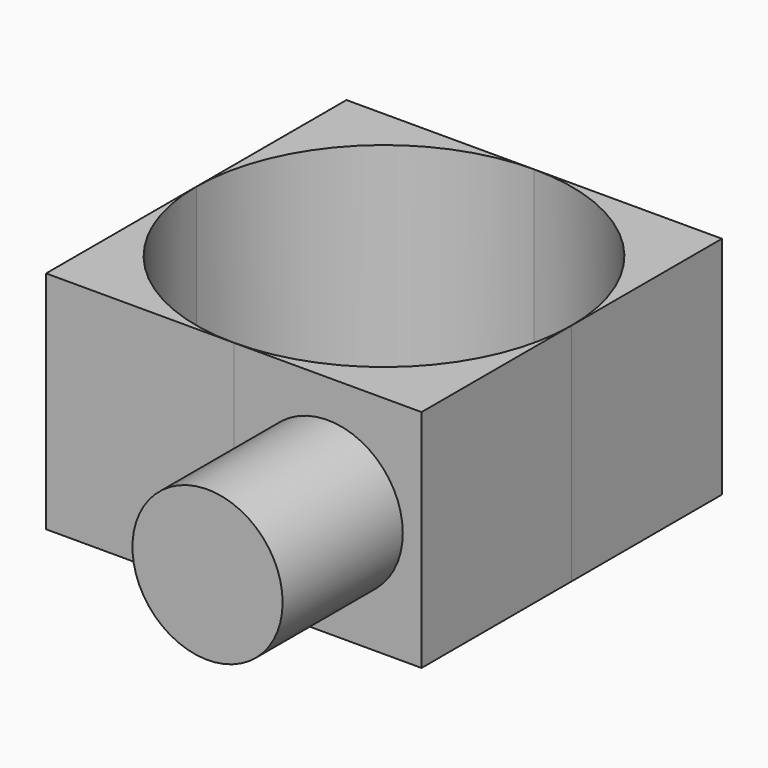
from build123d import *

# Parameters (mm, degrees)
F1_DEPTH = 76.2
F2_R     = 25.4
F3_DEPTH = 50.8


with BuildPart() as f1:
    # F0 (on Top) → F1 (new body)
    with BuildSketch(Plane.XY):
        with BuildLine():
            Line((63.5, 0), (0, 0))
            Line((0, 0), (0, -63.5))
            ThreePointArc((0, -63.5), (18.598719, -18.598719), (63.5, 0))
        make_face()
        with BuildLine():
            Line((127, 0), (63.5, 0))
            ThreePointArc((63.5, 0), (108.401281, -18.598719), (127, -63.5))
            Line((127, -63.5), (127, 0))
        make_face()
        with BuildLine():
            ThreePointArc((63.5, -127), (18.598719, -108.401281), (0, -63.5))
            Line((0, -63.5), (0, -127))
            Line((0, -127), (63.5, -127))
        make_face()
        with BuildLine():
            Line((127, -127), (127, -63.5))
            ThreePointArc((127, -63.5), (108.401281, -108.401281), (63.5, -127))
            Line((63.5, -127), (127, -127))
        make_face()
    extrude(amount=F1_DEPTH)

    # F2 (on face) → F3 (join)
    with BuildSketch(Plane.XZ.offset(127)):
        with Locations((95.25, 38.1)):
            Circle(F2_R)
    extrude(amount=F3_DEPTH)


solid = f1.part
